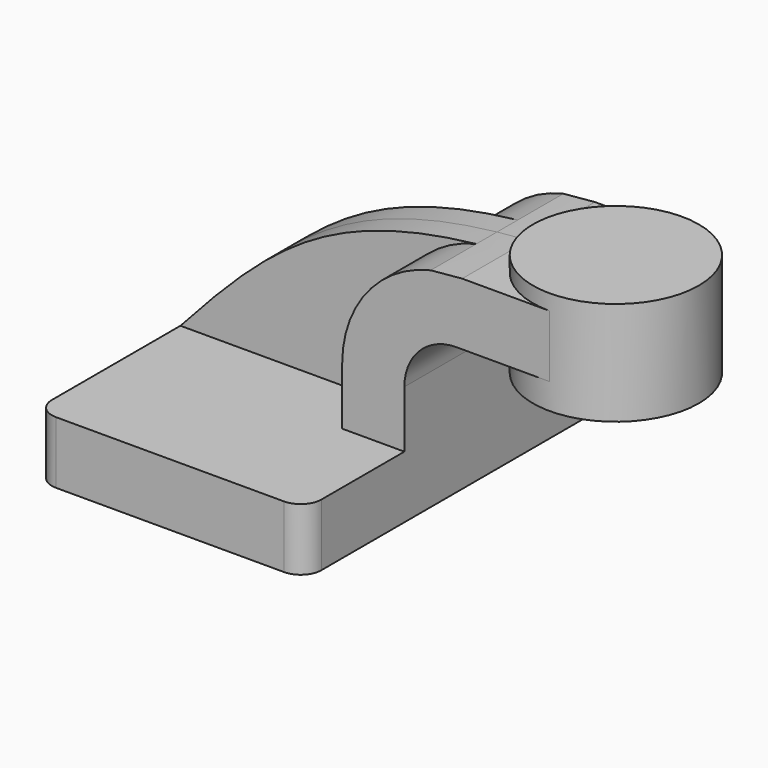
from build123d import *

# Parameters (mm, degrees)
F1_DEPTH = 63.5
F0_W     = 25.4
F0_H     = 19.05
F2_DEPTH = 25.4
F3_DEPTH = 7.9375
F5_R     = 6.35


with BuildPart() as f1:
    # F0 (on Front) → F1 (new body, symmetric)
    with BuildSketch(Plane.XZ):
        Polygon((-41.275, -9.525), (41.275, -9.525), (41.275, 9.525), (22.225, 9.525), (-41.275, 9.525), align=None)
    extrude(amount=F1_DEPTH, both=True)

    # F0 (on Front) → F2 (join, symmetric)
    with BuildSketch(Plane.XZ):
        with Locations((73.025, 52.4002)):
            Rectangle(F0_W, F0_H)
        with BuildLine():
            Line((22.225, 9.525), (41.275, 9.525))
            Line((41.275, 9.525), (41.275, 27.0002))
            ThreePointArc((41.275, 27.0002), (45.9246798487, 38.2255201513), (57.15, 42.8752))
            Line((57.15, 42.8752), (60.325, 42.8752))
            Line((60.325, 42.8752), (60.325, 61.9252))
            Line((60.325, 61.9252), (58.9716620743, 61.9252))
            add(Edge.make_bspline(
                [(49.3280599422, 61.0380154224), (52.4124065247, 61.3853046372), (55.623110734, 61.6807605246), (58.9716620743, 61.9252)],
                knots=[105.9109768732, 105.9109768732, 105.9109768732, 105.9109768732, 113.1157558304, 113.1157558304, 113.1157558304, 113.1157558304], degree=3))
            ThreePointArc((49.3280599422, 61.0380154224), (29.8284253609, 48.7553645418), (22.225, 27.0002))
            Line((22.225, 27.0002), (22.225, 9.525))
        make_face()
    extrude(amount=F2_DEPTH, both=True)

    # F0 (on Front) → F4 (revolve)
    with BuildSketch(Plane.XZ):
        Polygon((85.725, 61.9252), (85.725, 42.8752), (85.725, 34.925), (111.125, 34.925), (111.125, 66.675), (85.725, 66.675), align=None)
    revolve(axis=Axis((85.725, 0, 50.8), (0, 0, 1)))

    # F5
    f5_edges = [f1.edges().sort_by_distance(p)[0] for p in [
        (-41.275, -63.5, 0),
        (41.275, -63.5, 0),
        (-41.275, 63.5, 0),
        (41.275, 63.5, 0),
    ]]
    fillet(f5_edges, radius=F5_R)


with BuildPart() as f3:
    # F0 (on Front) → F3 (new body, symmetric)
    with BuildSketch(Plane.XZ):
        with BuildLine():
            add(Edge.make_bspline(
                [(-41.275, 9.525), (-14.0473573265, 39.6268251793), (3.9878542948, 55.9328289605), (49.3280599422, 61.0380154224)],
                knots=[0, 0, 0, 0, 105.9109768732, 105.9109768732, 105.9109768732, 105.9109768732], degree=3))
            Line((-41.275, 9.525), (22.225, 9.525))
            Line((22.225, 9.525), (22.225, 27.0002))
            ThreePointArc((22.225, 27.0002), (29.8284253609, 48.7553645418), (49.3280599422, 61.0380154224))
        make_face()
    extrude(amount=F3_DEPTH, both=True)


solid = Compound([f1.part, f3.part])
